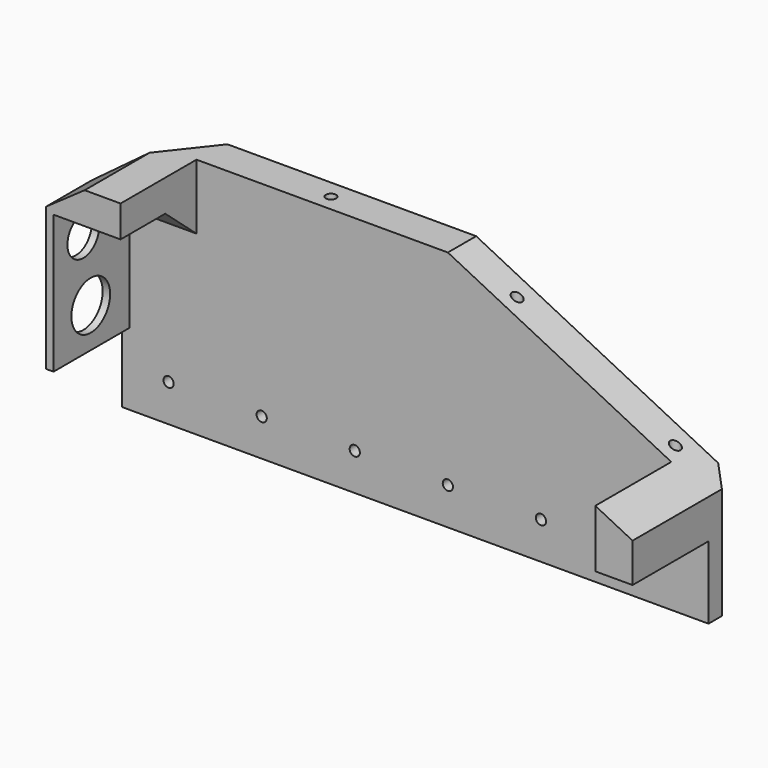
from build123d import *

# Parameters (mm, degrees)
PAD001_DEPTH        = 130
POCKET_DEPTH        = 77
SKETCH003_R         = 2.75
HOLE_DEPTH          = 150.001
HOLE001_D           = 5.5
HOLE001_DEPTH       = 25
HOLE001_CBORE_D     = 13
HOLE001_CBORE_DEPTH = 6.4
SKETCH012_W         = 40
SKETCH012_H         = 91.25
PAD004_DEPTH        = 52
POCKET003_DEPTH     = 54
POCKET003_TAPER     = 30
POCKET004_DEPTH     = 36
PAD006_DEPTH        = 52
SKETCH028_R         = 10.65
SKETCH028_R_2       = 13
POCKET009_DEPTH     = 5
POCKET011_DEPTH     = 102


with BuildPart() as part:
    # Sketch001 → Pad001 (new body)
    with BuildSketch(Plane.XY):
        Polygon((300, 70), (0, 70), (-5, 57.5), (-5, 51), (310, 51), (310, 60), align=None)
    extrude(amount=PAD001_DEPTH)

    # Sketch002 → Pocket (cut)
    with BuildSketch(Plane.XZ):
        Polygon((310, 60), (130, 150), (310, 150), align=None)
    extrude(amount=-POCKET_DEPTH, mode=Mode.SUBTRACT)

    # Sketch003 → Hole (cut, through all)
    with BuildSketch(Plane.XY.offset(150)):
        with Locations((100, 60)):
            Circle(SKETCH003_R)
        with Locations((200, 60)):
            Circle(SKETCH003_R)
        with Locations((285, 60)):
            Circle(SKETCH003_R)
        with Locations((25, 60)):
            Circle(SKETCH003_R)
    extrude(amount=-HOLE_DEPTH, mode=Mode.SUBTRACT)

    # Hole001
    with Locations(Plane(origin=(0, 70, 0), x_dir=(1, 0, 0), z_dir=(0, 1, 0))):
        with Locations((20, -20), (70, -20), (120, -20), (170, -20), (220, -20), (270, -20)):
            CounterBoreHole(HOLE001_D / 2, HOLE001_CBORE_D / 2, HOLE001_CBORE_DEPTH, depth=HOLE001_DEPTH)

    # Sketch012 → Pad004 (join)
    with BuildSketch(Plane.XZ):
        with Locations((15, 84.375)):
            Rectangle(SKETCH012_W, SKETCH012_H)
    extrude(amount=-PAD004_DEPTH)

    # Sketch014 → Pocket003 (cut)
    with BuildSketch(Plane.XY.offset(130)):
        Polygon((-50, -40), (-50, 100), (60, 100), align=None)
    extrude(amount=-POCKET003_DEPTH, taper=POCKET003_TAPER, mode=Mode.SUBTRACT)

    # Sketch016 → Pocket004 (cut)
    with BuildSketch(Plane.YZ.offset(35)):
        Polygon((0, 113), (0, 29), (51, 29), (51, 95), (30, 113), align=None)
    extrude(amount=-POCKET004_DEPTH, mode=Mode.SUBTRACT)

    # Sketch018 → Pad006 (join)
    with BuildSketch(Plane.XZ):
        Polygon((290, 70), (290, 39), (310, 39), (310, 60), align=None)
    extrude(amount=-PAD006_DEPTH)

    # Sketch028 → Pocket009 (cut)
    with BuildSketch(Plane.YZ):
        with Locations((20, 95)):
            Circle(SKETCH028_R)
        with Locations((25, 60)):
            Circle(SKETCH028_R_2)
    extrude(amount=-POCKET009_DEPTH, mode=Mode.SUBTRACT)

    # Sketch136 → Pocket011 (cut)
    with BuildSketch(Plane.XZ):
        Polygon((-20, 140), (-20, 105), (30, 140), align=None)
    extrude(amount=-POCKET011_DEPTH, mode=Mode.SUBTRACT)


with BuildPart() as part_1:
    # Body001 placement: moved
    add(part.part.moved(Location((0, 0, 10))))


solid = part_1.part
